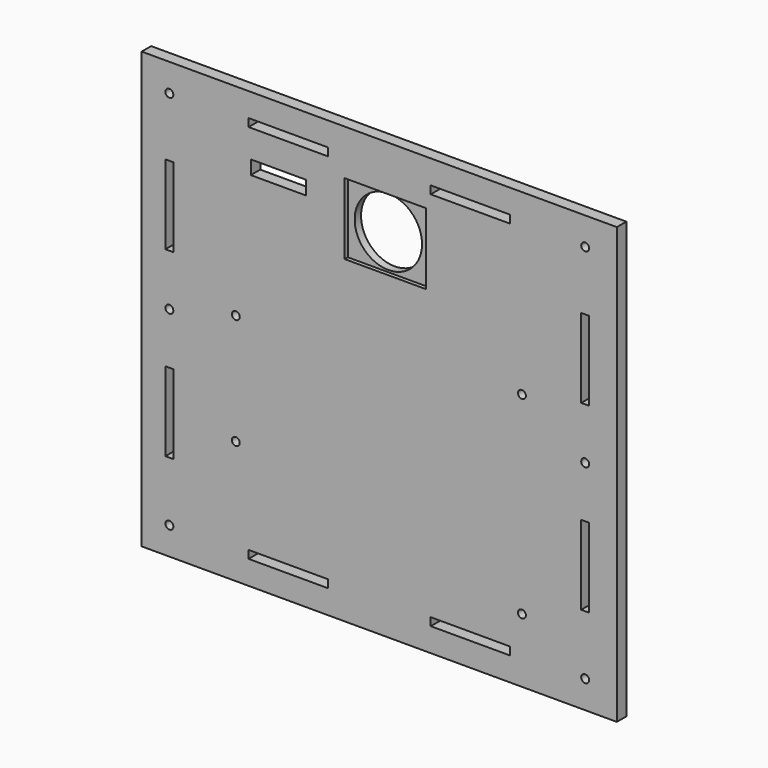
from build123d import *

# Parameters (mm, degrees)
F0_W     = 120
F0_H     = 110
F0_R     = 1
F0_W_2   = 20
F0_H_2   = 2
F0_W_3   = 2
F0_H_3   = 20
F0_W_4   = 14
F0_H_4   = 3.5
F0_R_2   = 8.5
F1_DEPTH = 3
F2_W     = 20.5
F2_H     = 18
F2_R     = 8.5
F3_DEPTH = 1


with BuildPart() as f1:
    # F0 (on Front) → F1 (new body)
    with BuildSketch(Plane.XZ):
        Rectangle(F0_W, F0_H)
        with Locations((-53, -48)):
            Circle(F0_R, mode=Mode.SUBTRACT)
        with Locations((-23, -48)):
            Rectangle(F0_W_2, F0_H_2, mode=Mode.SUBTRACT)
        with Locations((-53, -23)):
            Rectangle(F0_W_3, F0_H_3, mode=Mode.SUBTRACT)
        with Locations((-36.223244, -23.959939)):
            Circle(F0_R, mode=Mode.SUBTRACT)
        with Locations((23, -48)):
            Rectangle(F0_W_2, F0_H_2, mode=Mode.SUBTRACT)
        with Locations((52, -48)):
            Circle(F0_R, mode=Mode.SUBTRACT)
        with Locations((36.031369, -38.8)):
            Circle(F0_R, mode=Mode.SUBTRACT)
        with Locations((52, -23)):
            Rectangle(F0_W_3, F0_H_3, mode=Mode.SUBTRACT)
        with Locations((-53, 0)):
            Circle(F0_R, mode=Mode.SUBTRACT)
        with Locations((-36.223244, 4.040061)):
            Circle(F0_R, mode=Mode.SUBTRACT)
        with Locations((-53, 23)):
            Rectangle(F0_W_3, F0_H_3, mode=Mode.SUBTRACT)
        with Locations((-53, 48)):
            Circle(F0_R, mode=Mode.SUBTRACT)
        with Locations((-25.438215, 38.25)):
            Rectangle(F0_W_4, F0_H_4, mode=Mode.SUBTRACT)
        with Locations((-23, 48)):
            Rectangle(F0_W_2, F0_H_2, mode=Mode.SUBTRACT)
        with Locations((36.031369, 10)):
            Circle(F0_R, mode=Mode.SUBTRACT)
        with Locations((52, 0)):
            Circle(F0_R, mode=Mode.SUBTRACT)
        with Locations((52, 23)):
            Rectangle(F0_W_3, F0_H_3, mode=Mode.SUBTRACT)
        with Locations((1.5, 34.534223)):
            Circle(F0_R_2, mode=Mode.SUBTRACT)
        with Locations((23, 48)):
            Rectangle(F0_W_2, F0_H_2, mode=Mode.SUBTRACT)
        with Locations((52, 48)):
            Circle(F0_R, mode=Mode.SUBTRACT)
    extrude(amount=F1_DEPTH)

    # F2 (on face) → F3 (cut)
    with BuildSketch(Plane.XZ.offset(3)):
        with Locations((1.5, 34.534223)):
            Rectangle(F2_W, F2_H)
        with Locations((1.5, 34.534223)):
            Circle(F2_R, mode=Mode.SUBTRACT)
    extrude(amount=-F3_DEPTH, mode=Mode.SUBTRACT)


solid = f1.part
